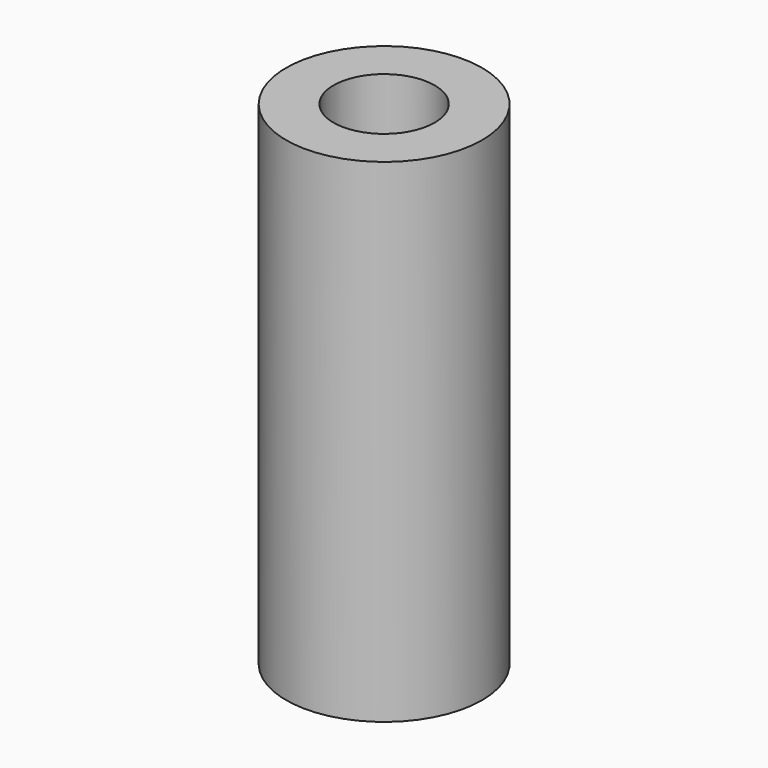
from build123d import *

# Parameters (mm, degrees)
SKETCH_R   = 3.1
SKETCH_R_2 = 1.6
PAD_DEPTH  = 15.6


with BuildPart() as part:
    # Sketch → Pad (new body)
    with BuildSketch(Plane.XY):
        Circle(SKETCH_R)
        Circle(SKETCH_R_2, mode=Mode.SUBTRACT)
    extrude(amount=PAD_DEPTH)


solid = part.part
